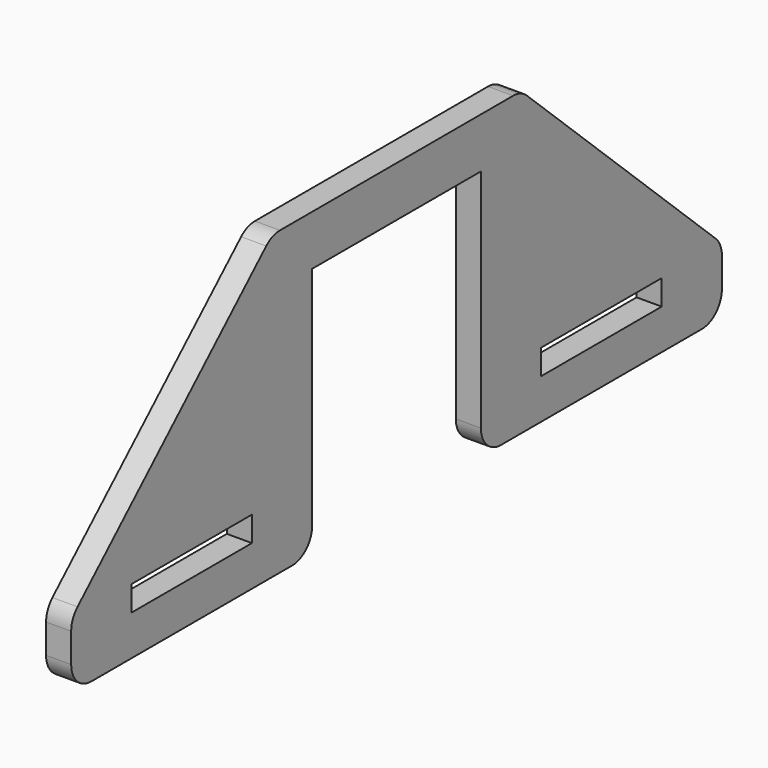
from build123d import *

# Parameters (mm, degrees)
F0_W     = 30
F0_H     = 5
F1_DEPTH = 5


with BuildPart() as f1:
    # F0 (on Right) → F1 (new body)
    with BuildSketch(Plane.YZ):
        with BuildLine():
            ThreePointArc((-5, 0), (-1.464466, 1.464466), (0, 5))
            Line((0, 5), (0, 50))
            Line((0, 50), (42, 50))
            Line((42, 50), (42, 5))
            ThreePointArc((42, 5), (43.464466, 1.464466), (47, 0))
            Line((47, 0), (97, 0))
            ThreePointArc((97, 0), (100.535534, 1.464466), (102, 5))
            Line((102, 5), (102, 10.837785))
            ThreePointArc((102, 10.837785), (101.589267, 12.822382), (100.42455, 14.480923))
            Line((100.42455, 14.480923), (53.44347, 58.643138))
            ThreePointArc((53.44347, 58.643138), (51.8607, 59.648424), (50.01892, 60))
            Line((50.01892, 60), (-8.01892, 60))
            ThreePointArc((-8.01892, 60), (-9.8607, 59.648424), (-11.44347, 58.643138))
            Line((-11.44347, 58.643138), (-58.42455, 14.480923))
            ThreePointArc((-58.42455, 14.480923), (-59.589267, 12.822382), (-60, 10.837785))
            Line((-60, 10.837785), (-60, 5))
            ThreePointArc((-60, 5), (-58.535534, 1.464466), (-55, 0))
            Line((-55, 0), (-5, 0))
        make_face()
        with Locations((-30, 10.5)):
            Rectangle(F0_W, F0_H, mode=Mode.SUBTRACT)
        with Locations((72, 10.5)):
            Rectangle(F0_W, F0_H, mode=Mode.SUBTRACT)
    extrude(amount=F1_DEPTH)


solid = f1.part
